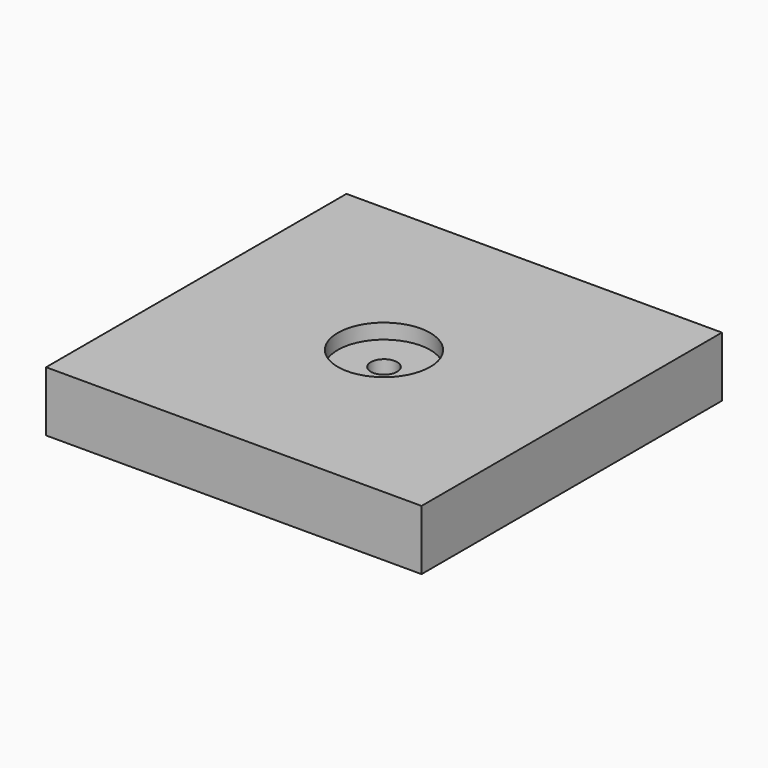
from build123d import *

# Parameters (mm, degrees)
F0_W     = 50
F0_H     = 50
F1_DEPTH = 8
F2_R     = 6.15
F3_DEPTH = 2
F4_R     = 1.75
F5_DEPTH = 6.001


with BuildPart() as f1:
    # F0 (on Top) → F1 (new body)
    with BuildSketch(Plane.XY):
        Rectangle(F0_W, F0_H)
    extrude(amount=-F1_DEPTH)

    # F2 (on face) → F3 (cut)
    with BuildSketch(Plane.XY):
        Circle(F2_R)
    extrude(amount=-F3_DEPTH, mode=Mode.SUBTRACT)

    # F4 (on face) → F5 (cut, through all)
    with BuildSketch(Plane.XY.offset(-2)):
        Circle(F4_R)
    extrude(amount=-F5_DEPTH, mode=Mode.SUBTRACT)


solid = f1.part
